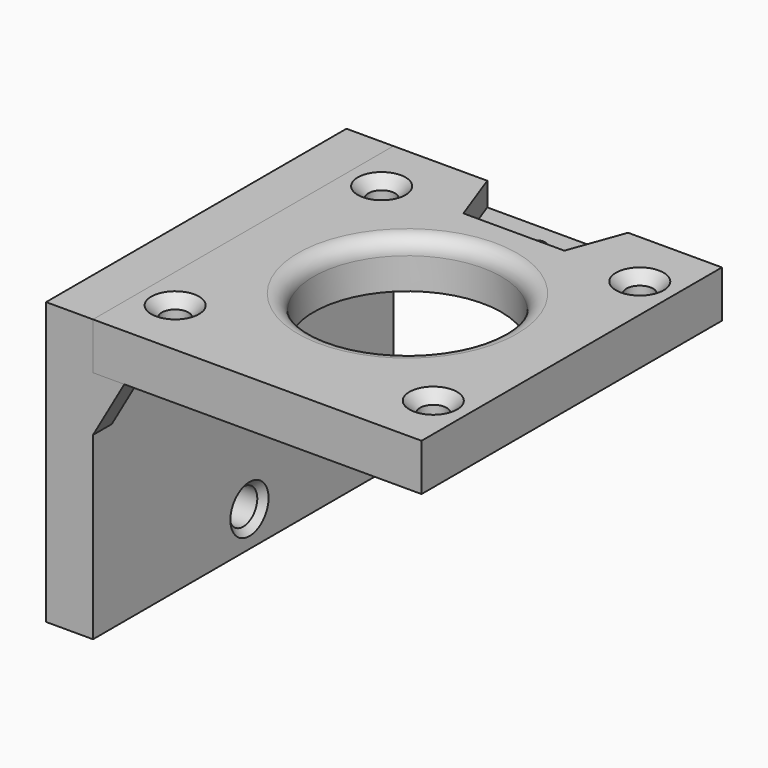
from build123d import *

# Parameters (mm, degrees)
BINDER012_W         = 48
BINDER012_H         = 42
PAD006_DEPTH        = 6
HOLE005_D           = 3.4
HOLE005_CSINK_D     = 6.1
HOLE005_CSINK_ANGLE = 90
SKETCH022_R         = 12
POCKET005_DEPTH     = 6.001
FILLET002_R         = 2
POCKET010_DEPTH     = 3
SKETCH037_R         = 1.25
POCKET011_DEPTH     = 3.001
SKETCH020_W         = 6
SKETCH020_H         = 48
PAD007_DEPTH        = 6
PAD007_DEPTH_BACK   = 30
PAD008_DEPTH        = 3
HOLE010_D           = 4.5
HOLE010_DEPTH       = 25
HOLE010_CSINK_D     = 6.1
HOLE010_CSINK_ANGLE = 90


with BuildPart() as body009:
    # Binder012 → Pad006 (new body)
    with BuildSketch(Plane(origin=(0, 0, 0), x_dir=(0, 1, 0), z_dir=(0, 0, 1))):
        Rectangle(BINDER012_W, BINDER012_H)
    extrude(amount=PAD006_DEPTH)

    # Hole005 (through all)
    with Locations(Plane.XY.offset(6)):
        with Locations((-16.5, 16.5), (-16.5, -16.5), (16.5, -16.5), (16.5, 16.5)):
            CounterSinkHole(HOLE005_D / 2, HOLE005_CSINK_D / 2, counter_sink_angle=HOLE005_CSINK_ANGLE)

    # Sketch022 (on Face5 of Hole005) → Pocket005 (cut, through all)
    with BuildSketch(Plane.XY.offset(6)):
        Circle(SKETCH022_R)
    extrude(amount=-POCKET005_DEPTH, mode=Mode.SUBTRACT)

    # Fillet002
    fillet002_edges = [body009.edges().sort_by_distance(p)[0] for p in [
        (-12, 0, 6),
    ]]
    fillet(fillet002_edges, radius=FILLET002_R)

    # Sketch023 (on Face1 of Fillet002) → Pocket010 (cut)
    with BuildSketch(Plane.XY.offset(6)):
        Polygon((-9, 24), (9, 24), (6.452208, 17), (-6.452208, 17), align=None)
    extrude(amount=-POCKET010_DEPTH, mode=Mode.SUBTRACT)

    # Sketch037 (on Face15 of Pocket010) → Pocket011 (cut, through all)
    with BuildSketch(Plane.XY.offset(3)):
        with Locations((0, 20.5)):
            Circle(SKETCH037_R)
    extrude(amount=-POCKET011_DEPTH, mode=Mode.SUBTRACT)


with BuildPart() as body010:
    # Sketch020 (on Face1 of Binder013) → Pad007 (new body, two sides)
    with BuildSketch(Plane.XY) as pad007_sk:
        with Locations((-24, 0)):
            Rectangle(SKETCH020_W, SKETCH020_H)
    extrude(amount=PAD007_DEPTH)
    extrude(pad007_sk.sketch, amount=-PAD007_DEPTH_BACK)

    # Sketch021 (on Face3 of Pad007) → Pad008 (join)
    with BuildSketch(Plane.XZ.offset(24)):
        Polygon((-21, 0), (-21, -7), (-17, 0), align=None)
    pad008 = extrude(amount=-PAD008_DEPTH)

    # Mirrored002: Pad008 across XZ
    add(pad008.mirror(Plane.XZ))

    # Hole010
    with Locations(Plane(origin=(-21, 191, 0), x_dir=(0, 1, 0), z_dir=(1, 0, 0))):
        with Locations((-189.999737, -25.501831), (-182.5, -12.5)):
            CounterSinkHole(HOLE010_D / 2, HOLE010_CSINK_D / 2, depth=HOLE010_DEPTH, counter_sink_angle=HOLE010_CSINK_ANGLE)


solid = Compound([body009.part, body010.part])
